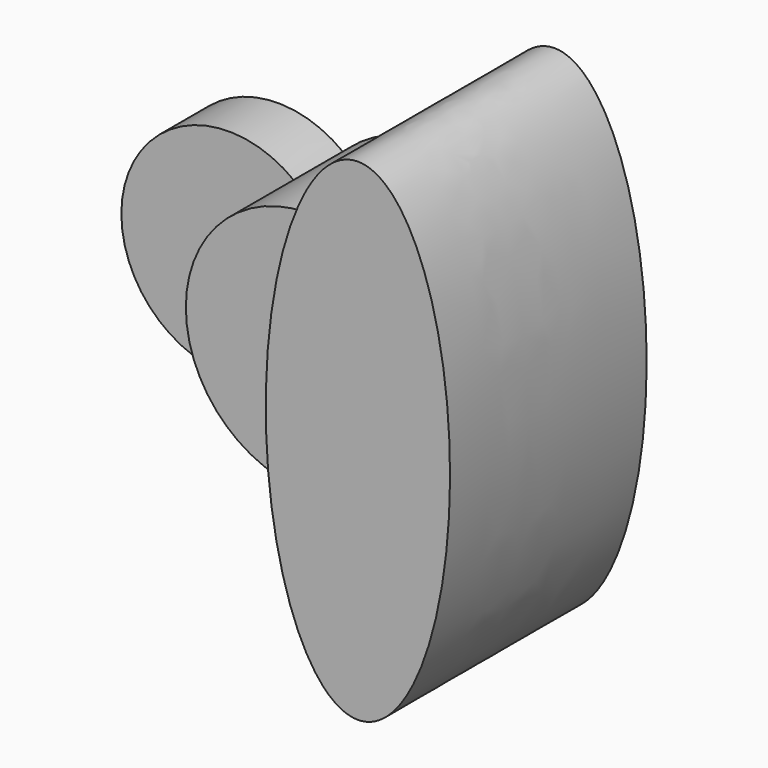
from build123d import *

# Parameters (mm, degrees)
F1_DEPTH = 25.4
F2_DEPTH = 63.5
F3_DEPTH = 101.6


with BuildPart() as f1:
    # F0 (on Front) → F1 (new body)
    with BuildSketch(Plane.XZ):
        with BuildLine():
            ThreePointArc((-63.5, 0), (-59.7928603931, 19.05), (-49.2125, 35.3196452948))
            ThreePointArc((-49.2125, 35.3196452948), (-120.65, 0), (-49.2125, -35.3196452948))
            ThreePointArc((-49.2125, -35.3196452948), (-59.7928603931, -19.05), (-63.5, 0))
        make_face()
    extrude(amount=F1_DEPTH)


with BuildPart() as f2:
    # F0 (on Front) → F2 (new body)
    with BuildSketch(Plane.XZ):
        with BuildLine():
            ThreePointArc((-49.2125, 35.3196452948), (-36.3540662363, 19.700356913), (-31.75, 0))
            Line((-31.75, 0), (0, 0))
            add(Edge.make_bspline(
                [(4.4812639483, 47.8063193432), (0, 25.3967215158), (0, 0)],
                knots=[1.0808997418, 1.0808997418, 1.0808997418, 1.5707963268, 1.5707963268, 1.5707963268], degree=2, weights=[1, 0.9701498657, 1]))
            ThreePointArc((4.4812639483, 47.8063193432), (-24.2066688933, 49.4796581534), (-49.2125, 35.3196452948))
        make_face()
        with BuildLine():
            Line((-63.5, 0), (-31.75, 0))
            ThreePointArc((-31.75, 0), (-36.3540662363, 19.700356913), (-49.2125, 35.3196452948))
            ThreePointArc((-49.2125, 35.3196452948), (-59.7928603931, 19.05), (-63.5, 0))
        make_face()
        with BuildLine():
            ThreePointArc((-49.2125, -35.3196452948), (-36.3540662363, -19.700356913), (-31.75, 0))
            Line((-31.75, 0), (-63.5, 0))
            ThreePointArc((-63.5, 0), (-59.7928603931, -19.05), (-49.2125, -35.3196452948))
        make_face()
        with BuildLine():
            Line((0, 0), (-31.75, 0))
            ThreePointArc((-31.75, 0), (-36.3540662363, -19.700356913), (-49.2125, -35.3196452948))
            ThreePointArc((-49.2125, -35.3196452948), (-24.2066688933, -49.4796581534), (4.4812639483, -47.8063193432))
            add(Edge.make_bspline(
                [(0, 0), (0, -25.3967215158), (4.4812639483, -47.8063193432)],
                knots=[1.5707963268, 1.5707963268, 1.5707963268, 2.0606929118, 2.0606929118, 2.0606929118], degree=2, weights=[1, 0.9701498657, 1]))
        make_face()
    extrude(amount=F2_DEPTH)


with BuildPart() as f3:
    # F0 (on Front) → F3 (new body)
    with BuildSketch(Plane.XZ):
        with BuildLine():
            add(Edge.make_bspline(
                [(38.1, 101.6), (15.238426287, 101.6), (4.4812639483, 47.8063193432)],
                knots=[0, 0, 0, 1.0808997418, 1.0808997418, 1.0808997418], degree=2, weights=[1, 0.8574772998, 1]))
            ThreePointArc((4.4812639483, 47.8063193432), (28.8538699075, 29.2218393623), (38.1, 0))
            Line((38.1, 0), (38.1, 101.6))
        make_face()
        with BuildLine():
            ThreePointArc((38.1, 0), (28.8538699075, -29.2218393623), (4.4812639483, -47.8063193432))
            add(Edge.make_bspline(
                [(4.4812639483, -47.8063193432), (36.1455334007, -206.1508293103), (70.7698851208, -52.2754146552), (105.3942368409, 101.6), (38.1, 101.6)],
                knots=[2.0606929118, 2.0606929118, 2.0606929118, 4.1719391095, 4.1719391095, 6.2831853072, 6.2831853072, 6.2831853072], degree=2, weights=[1, 0.4926856007, 1, 0.4926856007, 1]))
            Line((38.1, 101.6), (38.1, 0))
        make_face()
        with BuildLine():
            add(Edge.make_bspline(
                [(4.4812639483, 47.8063193432), (0, 25.3967215158), (0, 0)],
                knots=[1.0808997418, 1.0808997418, 1.0808997418, 1.5707963268, 1.5707963268, 1.5707963268], degree=2, weights=[1, 0.9701498657, 1]))
            add(Edge.make_bspline(
                [(0, 0), (0, -25.3967215158), (4.4812639483, -47.8063193432)],
                knots=[1.5707963268, 1.5707963268, 1.5707963268, 2.0606929118, 2.0606929118, 2.0606929118], degree=2, weights=[1, 0.9701498657, 1]))
            ThreePointArc((4.4812639483, -47.8063193432), (28.8538699075, -29.2218393623), (38.1, 0))
            ThreePointArc((38.1, 0), (28.8538699075, 29.2218393623), (4.4812639483, 47.8063193432))
        make_face()
    extrude(amount=F3_DEPTH)


solid = Compound([f1.part, f2.part, f3.part])
